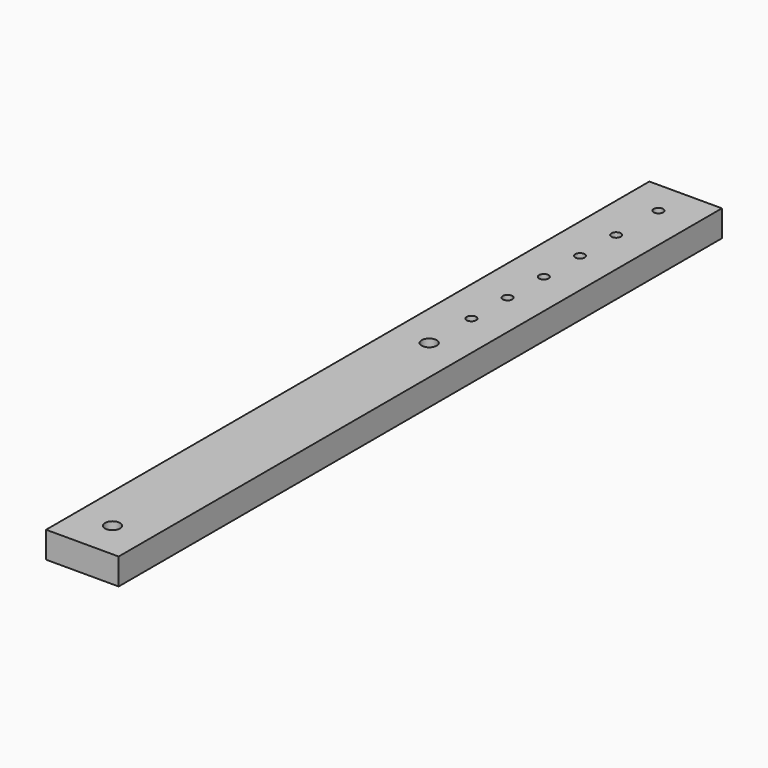
from build123d import *

# Parameters (mm, degrees)
F0_W     = 19.25
F0_H     = 200.025
F0_R     = 2
F0_R_2   = 1.25
F1_DEPTH = 7


with BuildPart() as f1:
    # F0 (on Top) → F1 (new body)
    with BuildSketch(Plane.XY):
        with Locations((9.625, 100.0125)):
            Rectangle(F0_W, F0_H)
        with Locations((9.625, 10)):
            Circle(F0_R, mode=Mode.SUBTRACT)
        with Locations((9.625, 115)):
            Circle(F0_R, mode=Mode.SUBTRACT)
        with Locations((9.625, 129)):
            Circle(F0_R_2, mode=Mode.SUBTRACT)
        with Locations((9.625, 141)):
            Circle(F0_R_2, mode=Mode.SUBTRACT)
        with Locations((9.625, 153)):
            Circle(F0_R_2, mode=Mode.SUBTRACT)
        with Locations((9.625, 165)):
            Circle(F0_R_2, mode=Mode.SUBTRACT)
        with Locations((9.625, 177)):
            Circle(F0_R_2, mode=Mode.SUBTRACT)
        with Locations((9.625, 191)):
            Circle(F0_R_2, mode=Mode.SUBTRACT)
    extrude(amount=F1_DEPTH)


solid = f1.part
